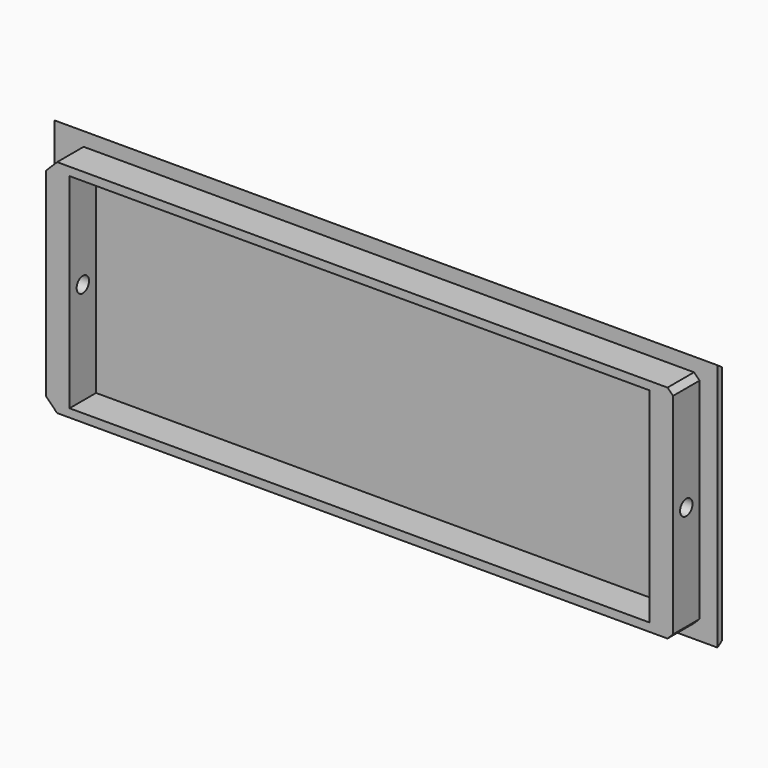
from build123d import *

# Parameters (mm, degrees)
SKETCH037_W     = 120
SKETCH037_H     = 45
PAD008_DEPTH    = 3
SKETCH038_W     = 113.5
SKETCH038_H     = 40
PAD009_DEPTH    = 6
SKETCH039_R     = 1.4
POCKET026_DEPTH = 116.751
POCKET027_DEPTH = 376.952357
CHAMFER008_SIZE = 2
SKETCH036_W     = 105
SKETCH036_H     = 37
POCKET028_DEPTH = 6
CHAMFER009_SIZE = 2
CHAMFER010_SIZE = 1
CHAMFER011_SIZE = 1
CHAMFER012_SIZE = 2


with BuildPart() as part:
    # Sketch037 → Pad008 (new body)
    with BuildSketch(Plane.XZ):
        Rectangle(SKETCH037_W, SKETCH037_H)
    extrude(amount=PAD008_DEPTH)

    # Sketch038 (on Face6 of Pad008) → Pad009 (join)
    with BuildSketch(Plane.XZ.offset(3)):
        Rectangle(SKETCH038_W, SKETCH038_H)
    extrude(amount=PAD009_DEPTH)

    # Sketch039 (on Face8 of Pad009) → Pocket026 (cut, through all)
    with BuildSketch(Plane(origin=(56.75, 0, 0), x_dir=(0, 0, 1), z_dir=(1, 0, 0))):
        with Locations((0, 6)):
            Circle(SKETCH039_R)
    extrude(amount=-POCKET026_DEPTH, mode=Mode.SUBTRACT)

    # Sketch040 (on Face3 of Pocket026) → Pocket027 (cut, through all)
    with BuildSketch(Plane(origin=(60, 0, 0), x_dir=(0, 0, 1), z_dir=(1, 0, 0))):
        Polygon((-22.5, 3), (-17.875456, -3.604533), (-35.516254, -3.604533), align=None)
    pocket027 = extrude(amount=-POCKET027_DEPTH, mode=Mode.SUBTRACT)

    # Mirrored: Pocket027 across Sketch040 V_Axis
    add(pocket027.mirror(Plane(origin=(60, 0, 0), x_dir=(1, 0, 0), z_dir=(0, 0, 1))), mode=Mode.SUBTRACT)

    # Chamfer008
    chamfer008_edges = [part.edges().sort_by_distance(p)[0] for p in [
        (60, 0, 0),
        (-60, 0, 0),
    ]]
    chamfer(chamfer008_edges, length=CHAMFER008_SIZE)

    # Sketch036 → Pocket028 (cut)
    with BuildSketch(Plane.XZ.offset(9)):
        Rectangle(SKETCH036_W, SKETCH036_H)
    extrude(amount=-POCKET028_DEPTH, mode=Mode.SUBTRACT)

    # Chamfer009
    chamfer009_edges = [part.edges().sort_by_distance(p)[0] for p in [
        (-56.75, -6, -20),
    ]]
    chamfer(chamfer009_edges, length=CHAMFER009_SIZE)

    # Chamfer010
    chamfer010_edges = [part.edges().sort_by_distance(p)[0] for p in [
        (56.75, -6, -20),
    ]]
    chamfer(chamfer010_edges, length=CHAMFER010_SIZE)

    # Chamfer011
    chamfer011_edges = [part.edges().sort_by_distance(p)[0] for p in [
        (56.75, -6, 20),
    ]]
    chamfer(chamfer011_edges, length=CHAMFER011_SIZE)

    # Chamfer012
    chamfer012_edges = [part.edges().sort_by_distance(p)[0] for p in [
        (-56.75, -6, 20),
    ]]
    chamfer(chamfer012_edges, length=CHAMFER012_SIZE)


with BuildPart() as part_1:
    # Body003 placement: moved
    add(part.part.moved(Location((7, 30, 110))))


solid = part_1.part
